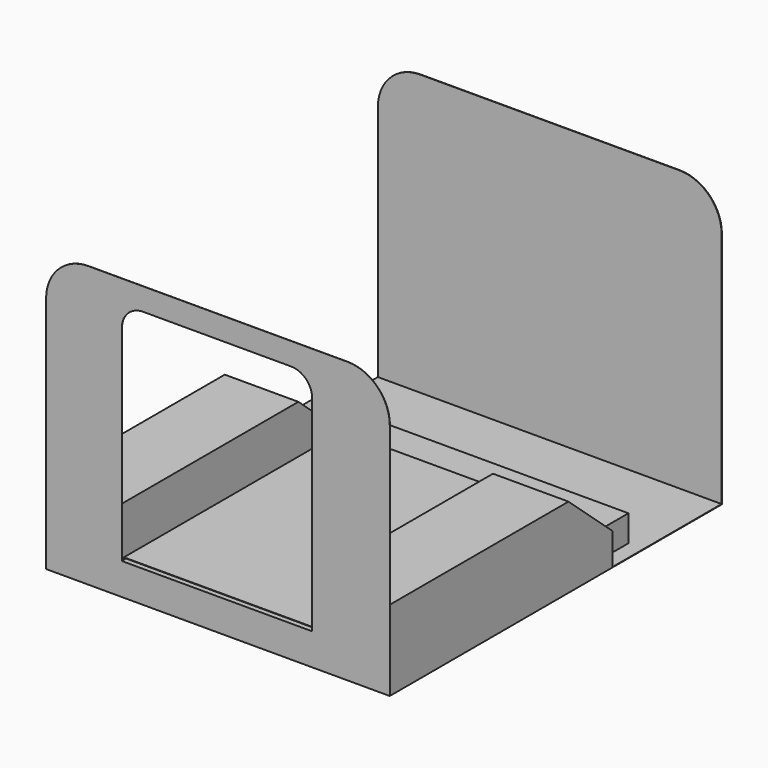
from build123d import *

# Parameters (mm, degrees)
F0_W      = 1625
F0_H      = 1960
F1_DEPTH  = 380
F2_W      = 920
F2_H      = 1960
F3_DEPTH  = 228
F4_W      = 1625
F4_H      = 645
F5_DEPTH  = 378
F6_W      = 1480
F6_H      = 185
F7_DEPTH  = 125
F9_DEPTH  = 2
F11_DEPTH = 1
F13_DEPTH = 25
F15_DEPTH = 1625.001


with BuildPart() as f1:
    # F0 (on Top) → F1 (new body)
    with BuildSketch(Plane.XY):
        with Locations((812.5, 980)):
            Rectangle(F0_W, F0_H)
    extrude(amount=F1_DEPTH)

    # F2 (on face) → F3 (cut)
    with BuildSketch(Plane.XY.offset(380)):
        with Locations((808, 980)):
            Rectangle(F2_W, F2_H)
    extrude(amount=-F3_DEPTH, mode=Mode.SUBTRACT)

    # F4 (on face) → F5 (cut)
    with BuildSketch(Plane.XY.offset(380)):
        with Locations((812.5, 1637.5)):
            Rectangle(F4_W, F4_H)
    extrude(amount=-F5_DEPTH, mode=Mode.SUBTRACT)

    # F6 (on face) → F7 (join)
    with BuildSketch(Plane.XY.offset(2)):
        with Locations((812.5, 1407.5)):
            Rectangle(F6_W, F6_H)
    extrude(amount=F7_DEPTH)

    # F8 (on face) → F9 (join)
    with BuildSketch(Plane(origin=(0, 1960, 0), x_dir=(-1, 0, 0), z_dir=(0, 1, 0))):
        with BuildLine():
            Line((-1625, 1126), (-1625, 0))
            Line((-1625, 0), (0, 0))
            Line((0, 0), (0, 1126))
            ThreePointArc((0, 1126), (-58.578644, 1267.421356), (-200, 1326))
            Line((-200, 1326), (-1425, 1326))
            ThreePointArc((-1425, 1326), (-1566.421356, 1267.421356), (-1625, 1126))
        make_face()
    extrude(amount=F9_DEPTH)

    # F10 (on face) → F11 (join)
    with BuildSketch(Plane.XZ):
        with BuildLine():
            Line((0, 1126), (0, 0))
            Line((0, 0), (1625, 0))
            Line((1625, 0), (1625, 1126))
            ThreePointArc((1625, 1126), (1566.421356, 1267.421356), (1425, 1326))
            Line((1425, 1326), (200, 1326))
            ThreePointArc((200, 1326), (58.578644, 1267.421356), (0, 1126))
        make_face()
    extrude(amount=F11_DEPTH)

    # F12 (on face) → F13 (cut)
    with BuildSketch(Plane.XZ.offset(1)):
        with BuildLine():
            Line((358, 1120), (358, 150))
            Line((358, 150), (1258, 150))
            Line((1258, 150), (1258, 1120))
            ThreePointArc((1258, 1120), (1228.710678, 1190.710678), (1158, 1220))
            Line((1158, 1220), (458, 1220))
            ThreePointArc((458, 1220), (387.289322, 1190.710678), (358, 1120))
        make_face()
    extrude(amount=-F13_DEPTH, mode=Mode.SUBTRACT)

    # F14 (on face) → F15 (cut, through all)
    with BuildSketch(Plane.YZ.offset(1625)):
        Polygon((1315, 380), (1055, 380), (1315, 152), align=None)
    extrude(amount=-F15_DEPTH, mode=Mode.SUBTRACT)


solid = f1.part
